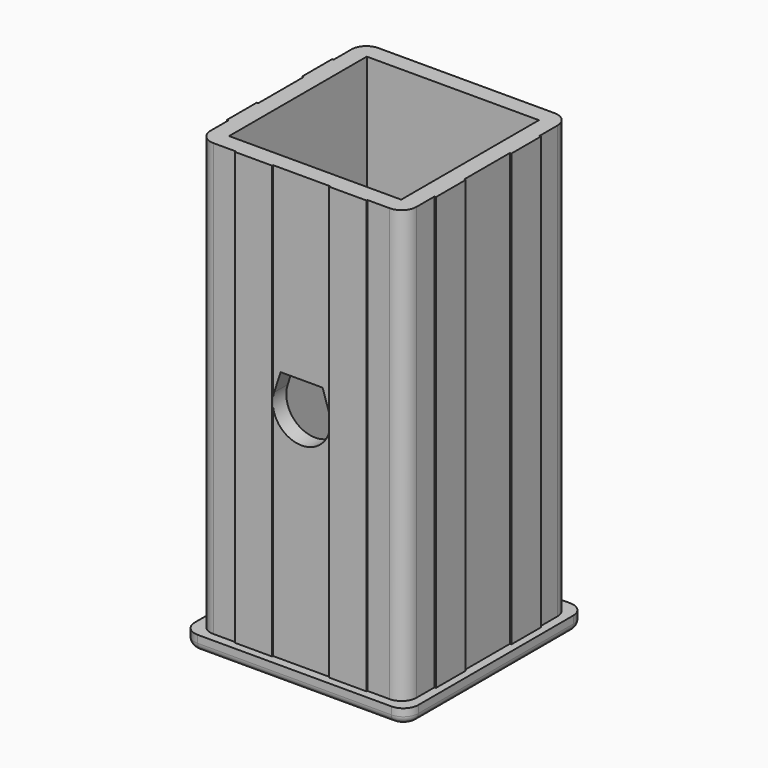
from build123d import *

# Parameters (mm, degrees)
F0_W     = 46.2
F0_H     = 46.2
F1_DEPTH = 116
F0_W_2   = 60
F0_H_2   = 60
F2_DEPTH = 4
F3_R     = 4
F4_R     = 2
F7_DEPTH = 80


with BuildPart() as f1:
    # F0 (on Top) → F1 (new body)
    with BuildSketch(Plane.XY):
        Polygon((27.65, 17.65), (27.65, 27.65), (-27.65, 27.65), (-27.65, 17.65), (-28.05, 17.65), (-28.05, 7.65), (-27.65, 7.65), (-27.65, -7.65), (-28.05, -7.65), (-28.05, -17.65), (-27.65, -17.65), (-27.65, -27.65), (-17.65, -27.65), (-17.65, -27.95), (-7.65, -27.95), (-7.65, -27.65), (7.65, -27.65), (7.65, -27.95), (17.65, -27.95), (17.65, -27.65), (27.65, -27.65), (27.65, -17.65), (28.05, -17.65), (28.05, -7.65), (27.65, -7.65), (27.65, 7.65), (28.05, 7.65), (28.05, 17.65), align=None)
        Rectangle(F0_W, F0_H, mode=Mode.SUBTRACT)
    extrude(amount=F1_DEPTH)

    # F0 (on Top) → F2 (join)
    with BuildSketch(Plane.XY):
        Rectangle(F0_W_2, F0_H_2)
        Polygon((-27.65, 27.65), (27.65, 27.65), (27.65, 17.65), (28.05, 17.65), (28.05, 7.65), (27.65, 7.65), (27.65, -7.65), (28.05, -7.65), (28.05, -17.65), (27.65, -17.65), (27.65, -27.65), (17.65, -27.65), (17.65, -27.95), (7.65, -27.95), (7.65, -27.65), (-7.65, -27.65), (-7.65, -27.95), (-17.65, -27.95), (-17.65, -27.65), (-27.65, -27.65), (-27.65, -17.65), (-28.05, -17.65), (-28.05, -7.65), (-27.65, -7.65), (-27.65, 7.65), (-28.05, 7.65), (-28.05, 17.65), (-27.65, 17.65), align=None, mode=Mode.SUBTRACT)
        Polygon((27.65, 17.65), (27.65, 27.65), (-27.65, 27.65), (-27.65, 17.65), (-28.05, 17.65), (-28.05, 7.65), (-27.65, 7.65), (-27.65, -7.65), (-28.05, -7.65), (-28.05, -17.65), (-27.65, -17.65), (-27.65, -27.65), (-17.65, -27.65), (-17.65, -27.95), (-7.65, -27.95), (-7.65, -27.65), (7.65, -27.65), (7.65, -27.95), (17.65, -27.95), (17.65, -27.65), (27.65, -27.65), (27.65, -17.65), (28.05, -17.65), (28.05, -7.65), (27.65, -7.65), (27.65, 7.65), (28.05, 7.65), (28.05, 17.65), align=None)
        Rectangle(F0_W, F0_H, mode=Mode.SUBTRACT)
    extrude(amount=-F2_DEPTH)

    # F3
    f3_edges = [f1.edges().sort_by_distance(p)[0] for p in [
        (27.65, -27.65, 58),
        (-27.65, -27.65, 58),
        (27.65, 27.65, 58),
        (-27.65, 27.65, 58),
        (-30, 30, -2),
        (30, 30, -2),
        (-30, -30, -2),
        (30, -30, -2),
    ]]
    fillet(f3_edges, radius=F3_R)

    # F4
    f4_edges = [f1.edges().sort_by_distance(p)[0] for p in [
        (30, 0, -4),
    ]]
    fillet(f4_edges, radius=F4_R)

    # F6 (on offset) → F7 (cut)
    with BuildSketch(Plane.XZ.offset(27.65)):
        with BuildLine():
            Line((-5.630705, 67.75), (-7.370688, 62.394882))
            ThreePointArc((-7.370688, 62.394882), (0, 52.25), (7.370688, 62.394882))
            Line((7.370688, 62.394882), (5.630705, 67.75))
            Line((5.630705, 67.75), (-5.630705, 67.75))
        make_face()
    extrude(amount=-F7_DEPTH, mode=Mode.SUBTRACT)


solid = f1.part
